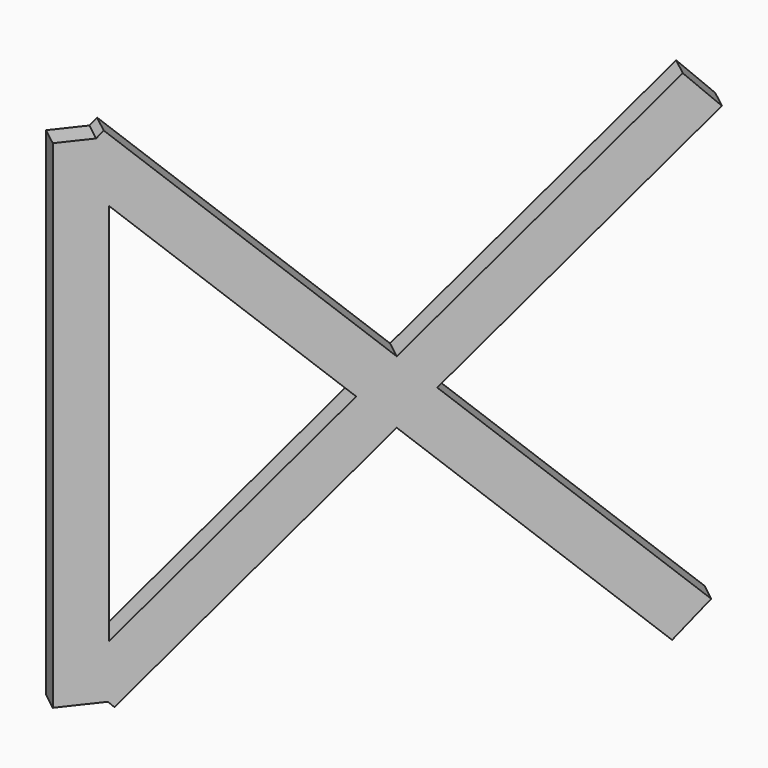
from build123d import *

# Parameters (mm, degrees)
BOX235_W                  = 0.5
BOX235_H                  = 1
BOX235_DEPTH              = 15
BOX235_ROLL_ANGLE         = 46
BOX236_W                  = 0.5
BOX236_H                  = 1
BOX236_DEPTH              = 15
BOX236_ROLL_ANGLE         = -46
BOX234_W                  = 0.5
BOX234_H                  = 1
BOX234_DEPTH              = 11
FUSION021_PLACEMENT_ANGLE = -38


with BuildPart() as cubo235:
    # Box235 → Box235 (new body)
    with BuildSketch(Plane.XY):
        with Locations((0.25, 0.5)):
            Rectangle(BOX235_W, BOX235_H)
    extrude(amount=BOX235_DEPTH)


with BuildPart() as cubo235_1:
    # Box235 roll: moved
    add(cubo235.part.rotate(Axis((0, 0, 0), (1, 0, 0)), BOX235_ROLL_ANGLE))


with BuildPart() as cubo235_2:
    # Box235 placement: moved
    add(cubo235_1.part.moved(Location((0, 11, 0.5))))


with BuildPart() as cubo236:
    # Box236 → Box236 (new body)
    with BuildSketch(Plane.XY):
        with Locations((0.25, 0.5)):
            Rectangle(BOX236_W, BOX236_H)
    extrude(amount=BOX236_DEPTH)


with BuildPart() as cubo236_1:
    # Box236 roll: moved
    add(cubo236.part.rotate(Axis((0, 0, 0), (1, 0, 0)), BOX236_ROLL_ANGLE))


with BuildPart() as cubo236_2:
    # Box236 placement: moved
    add(cubo236_1.part.moved(Location((0, 0.4, 1.1))))


with BuildPart() as fusion021:
    # Box234 → Box234 (new body)
    with BuildSketch(Plane.XY.offset(0.5)):
        with Locations((0.25, 0.5)):
            Rectangle(BOX234_W, BOX234_H)
    extrude(amount=BOX234_DEPTH)

    # Fusion021: union Cubo235, Cubo236
    add(cubo235_2.part)
    add(cubo236_2.part)


with BuildPart() as fusion021_1:
    # Fusion021 placement: moved
    add(fusion021.part.moved(Location((-186.16, 141.7, 0))).rotate(Axis((-186.16, 141.7, 0), (0, 0, 1)), FUSION021_PLACEMENT_ANGLE))


solid = fusion021_1.part
